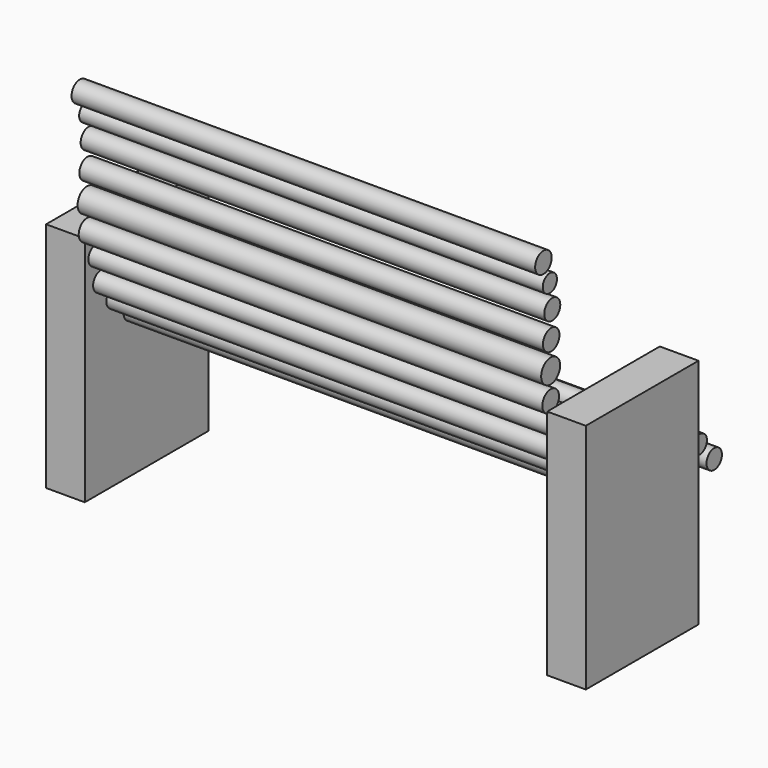
from build123d import *

# Parameters (mm, degrees)
F0_R     = 3.16067
F0_R_2   = 2.96773
F0_R_3   = 3.102005
F0_R_4   = 3.115231
F0_R_5   = 3.144098
F0_R_6   = 3.395515
F0_R_7   = 3.372894
F0_R_8   = 3.178308
F0_R_9   = 3.192537
F0_R_10  = 3.147802
F0_R_11  = 3.43163
F0_R_12  = 3.89317
F0_R_13  = 3.390664
F0_R_14  = 3.288757
F0_R_15  = 2.910214
F0_R_16  = 3.39479
F1_DEPTH = 152.146
F2_W     = 50.8
F2_H     = 76.2
F3_DEPTH = 12.7
F4_W     = 12.7
F4_H     = 76.2
F5_DEPTH = 23.114


with BuildPart() as f1:
    # F0 (on Right) → F1 (new body)
    with BuildSketch(Plane.YZ):
        with Locations((45.377556, -24.061644)):
            Circle(F0_R)
        with Locations((39.426105, -17.412066)):
            Circle(F0_R_2)
        with Locations((32.300781, -12.975757)):
            Circle(F0_R_3)
        with Locations((23.361698, -13.055068)):
            Circle(F0_R_4)
        with Locations((14.200249, -13.284103)):
            Circle(F0_R_5)
        with Locations((4.733417, -13.39438)):
            Circle(F0_R_6)
        with Locations((-3.360607, -10.248034)):
            Circle(F0_R_7)
        with Locations((-10.618954, -4.022015)):
            Circle(F0_R_8)
        with Locations((-16.032538, 2.80372)):
            Circle(F0_R_9)
        with Locations((-18.017519, 11.146432)):
            Circle(F0_R_10)
        with Locations((-21.710697, 19.957051)):
            Circle(F0_R_11)
        with Locations((-21.714445, 28.669726)):
            Circle(F0_R_12)
        with Locations((-21.499782, 37.602966)):
            Circle(F0_R_13)
        with Locations((-21.060925, 46.192451)):
            Circle(F0_R_14)
        with Locations((-22.052919, 54.161627)):
            Circle(F0_R_15)
        with Locations((-24.685545, 61.218007)):
            Circle(F0_R_16)
    extrude(amount=F1_DEPTH)


with BuildPart() as f3:
    # F2 (on Right) → F3 (new body)
    with BuildSketch(Plane.YZ):
        with Locations((2.748434, -20.30052)):
            Rectangle(F2_W, F2_H)
    extrude(amount=-F3_DEPTH)


with BuildPart() as f5:
    # F4 (on Front) → F5 (new body, symmetric)
    with BuildSketch(Plane.XZ):
        with Locations((158.446074, -20.610275)):
            Rectangle(F4_W, F4_H)
    extrude(amount=F5_DEPTH, both=True)


solid = Compound([f1.part, f3.part, f5.part])
